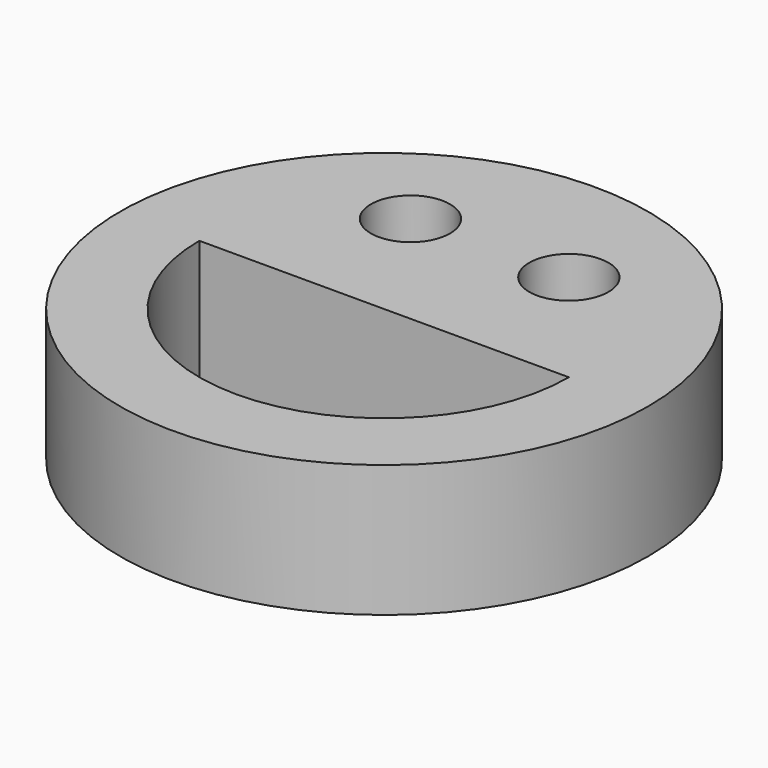
from build123d import *

# Parameters (mm, degrees)
F0_R     = 25.4
F0_R_2   = 3.81
F1_DEPTH = 12.7


with BuildPart() as f1:
    # F0 (on Top) → F1 (new body)
    with BuildSketch(Plane.XY):
        Circle(F0_R)
        with BuildLine():
            Line((-17.78, 0), (17.78, 0))
            ThreePointArc((17.78, 0), (0, -17.78), (-17.78, 0))
        make_face(mode=Mode.SUBTRACT)
        with Locations((-7.62, 12.7)):
            Circle(F0_R_2, mode=Mode.SUBTRACT)
        with Locations((7.62, 12.7)):
            Circle(F0_R_2, mode=Mode.SUBTRACT)
    extrude(amount=F1_DEPTH)


solid = f1.part
